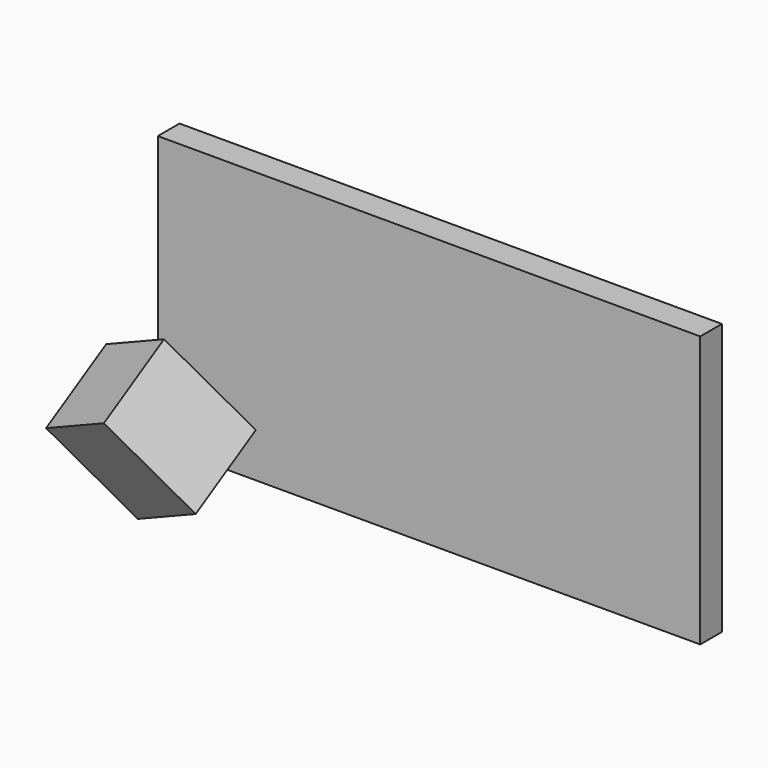
from build123d import *

# Parameters (mm, degrees)
F1_DEPTH = 25
F2_W     = 8
F2_H     = 8
F3_DEPTH = 10
F4_ANGLE = -30
F5_ANGLE = -30


with BuildPart() as f1:
    # F0 (on Top) → F1 (new body)
    with BuildSketch(Plane.XY):
        Polygon((-25.186831, 2.5), (-25.186831, 0), (-16.514994, 0), (-7.658304, 0), (24.813169, 0), (24.813169, 2.5), align=None)
    extrude(amount=F1_DEPTH)


with BuildPart() as f3:
    # F2 (on Top) → F3 (new body)
    with BuildSketch(Plane.XY):
        with Locations((-15.021864, -6)):
            Rectangle(F2_W, F2_H)
    extrude(amount=F3_DEPTH)


with BuildPart() as f3_1:
    # F4: moved
    add(f3.part.rotate(Axis((-15.021864, -10, 0), (-1, 0, 0)), F4_ANGLE))


with BuildPart() as f3_2:
    # F5: moved
    add(f3_1.part.rotate(Axis((-19.021864, -6.535898, 2), (0, 0.866025, 0.5)), F5_ANGLE))


solid = Compound([f1.part, f3_2.part])
